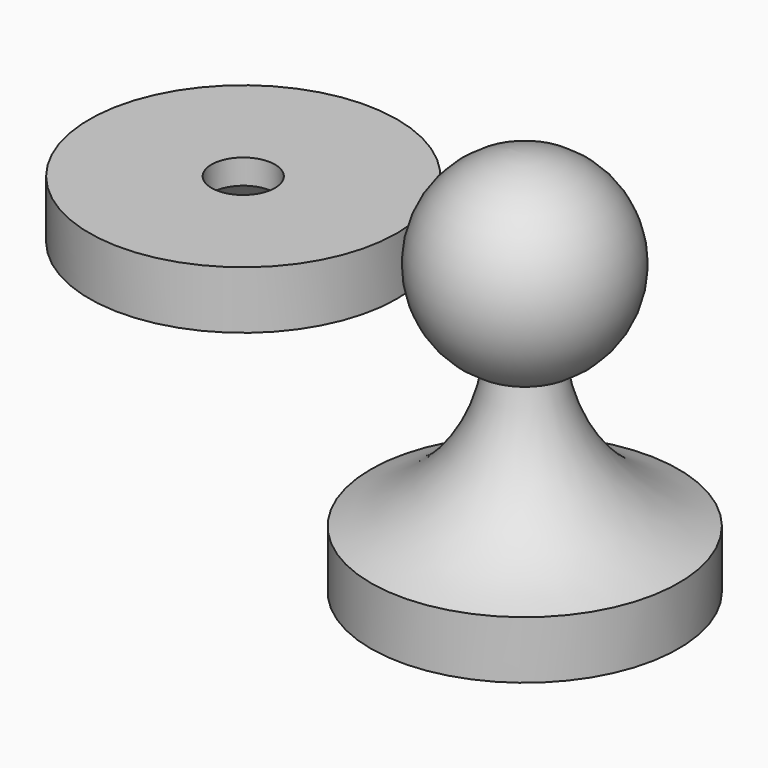
from build123d import *

# Parameters (mm, degrees)
F3_D           = 2.5
F3_DEPTH       = 7
F3_TIP         = 0.7510757738
F4_R           = 8
F5_DEPTH       = 3
F6_D           = 3.3
F6_DEPTH       = 7
F6_CSINK_D     = 6.72
F6_CSINK_ANGLE = 90
F6_TIP         = 0.9914200214


with BuildPart() as f1:
    # F0 (on Front) → F1 (revolve)
    with BuildSketch(Plane.XZ):
        with BuildLine():
            Line((-8, 0), (0, 0))
            Line((0, 0), (0, 20))
            ThreePointArc((0, 20), (-4.9211688735, 15.8843624363), (-1.7408387578, 10.3128387675))
            ThreePointArc((-1.7408387578, 10.3128387675), (-3.8076524747, 5.7467822882), (-8, 3))
            Line((-8, 3), (-8, 0))
        make_face()
    revolve(axis=Axis((0, 0, 10), (0, 0, -1)))

    # F3
    with Locations(Plane(origin=(0, 0, 0), x_dir=(1, 0, 0), z_dir=(0, 0, -1))):
        with Locations((0, 0)):
            Hole(F3_D / 2, depth=F3_DEPTH)
            with Locations((0, 0, -(F3_DEPTH + F3_TIP / 2))):  # 118° drill point
                Cone(0, F3_D / 2, F3_TIP, mode=Mode.SUBTRACT)


with BuildPart() as f5:
    # F4 (on Top) → F5 (new body)
    with BuildSketch(Plane.XY):
        with Locations((-28.1250011176, 16.8750006706)):
            Circle(F4_R)
    extrude(amount=F5_DEPTH)

    # F6
    with Locations(Plane(origin=(0, 0, 0), x_dir=(1, 0, 0), z_dir=(0, 0, -1))):
        with Locations((-28.1250011176, -16.8750006706)):
            CounterSinkHole(F6_D / 2, F6_CSINK_D / 2, depth=F6_DEPTH, counter_sink_angle=F6_CSINK_ANGLE)
            with Locations((0, 0, -(F6_DEPTH + F6_TIP / 2))):  # 118° drill point
                Cone(0, F6_D / 2, F6_TIP, mode=Mode.SUBTRACT)


solid = Compound([f1.part, f5.part])
